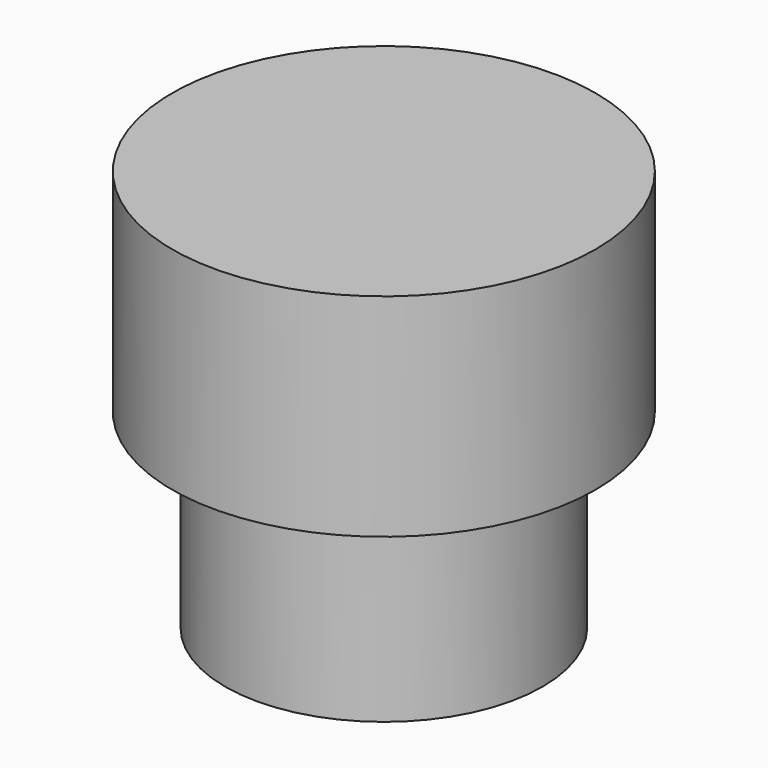
from build123d import *

# Parameters (mm, degrees)
F0_R     = 3.75
F0_R_2   = 2.45
F1_DEPTH = 4.5
F2_R     = 5
F3_DEPTH = 5
F4_R     = 2.45
F5_DEPTH = 2.5


with BuildPart() as f1:
    # F0 (on Top) → F1 (new body)
    with BuildSketch(Plane.XY):
        Circle(F0_R)
        Circle(F0_R_2, mode=Mode.SUBTRACT)
    extrude(amount=F1_DEPTH)

    # F2 (on face) → F3 (join)
    with BuildSketch(Plane.XY.offset(4.5)):
        Circle(F2_R)
    extrude(amount=F3_DEPTH)

    # F4 (on face) → F5 (cut)
    with BuildSketch(Plane(origin=(0, 0, 4.5), x_dir=(1, 0, 0), z_dir=(0, 0, -1))):
        Circle(F4_R)
    extrude(amount=-F5_DEPTH, mode=Mode.SUBTRACT)


solid = f1.part
